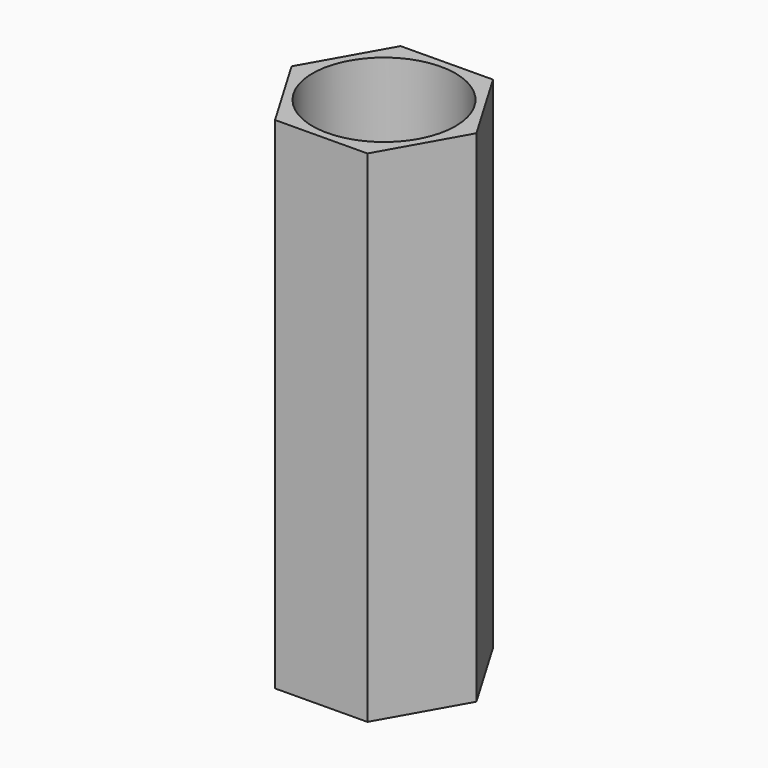
from build123d import *

# Parameters (mm, degrees)
F1_DEPTH = 35
F2_R     = 5
F3_DEPTH = 35


with BuildPart() as f1:
    # F0 (on Top) → F1 (new body)
    with BuildSketch(Plane.XY):
        Polygon((-3.260455, 5.5239), (-6.414065, -0.061687), (-3.15361, -5.585586), (3.260455, -5.5239), (6.414065, 0.061687), (3.15361, 5.585586), align=None)
    extrude(amount=F1_DEPTH)

    # F2 (on face) → F3 (cut)
    with BuildSketch(Plane.XY.offset(35)):
        Circle(F2_R)
    extrude(amount=-F3_DEPTH, mode=Mode.SUBTRACT)


solid = f1.part
